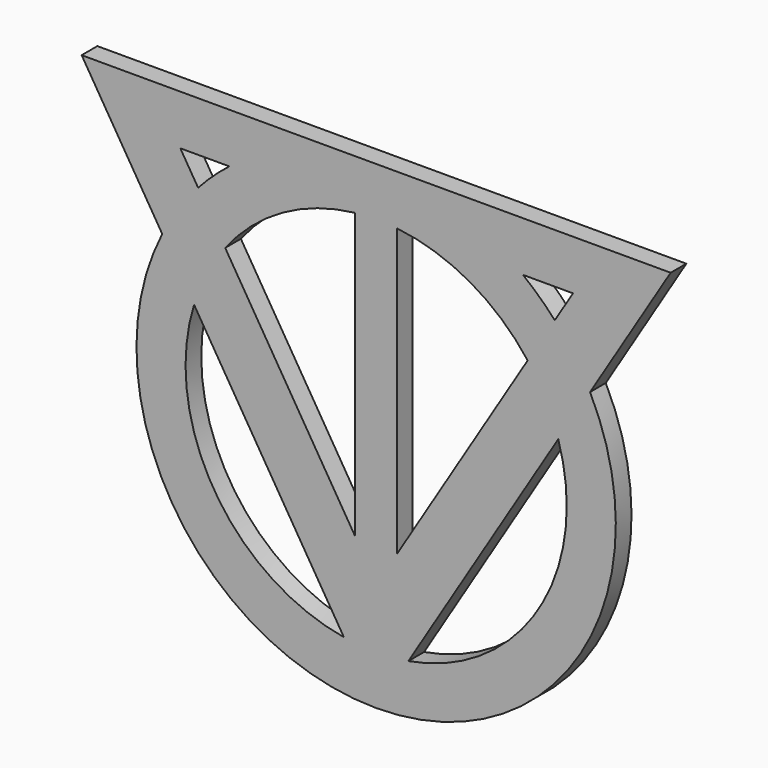
from build123d import *

# Parameters (mm, degrees)
F1_DEPTH = 2.54


with BuildPart() as f1:
    # F0 (on Front) → F1 (new body)
    with BuildSketch(Plane.XZ):
        with BuildLine():
            Line((-28.245696, 21.590037), (-17.819697, 4.609524))
            ThreePointArc((-17.819697, 4.609524), (-16.568917, -25.598129), (9.804215, -40.380711))
            ThreePointArc((9.804215, -40.380711), (9.829259, -40.380741), (9.854304, -40.380751))
            ThreePointArc((9.854304, -40.380751), (9.879348, -40.380741), (9.904392, -40.380711))
            ThreePointArc((9.904392, -40.380711), (36.277524, -25.598129), (37.528304, 4.609524))
            Line((37.528304, 4.609524), (47.954304, 21.590037))
            Line((47.954304, 21.590037), (11.468784, 21.590037))
            Line((11.468784, 21.590037), (9.854304, 21.590037))
            Line((9.854304, 21.590037), (8.239823, 21.590037))
            Line((8.239823, 21.590037), (-28.245696, 21.590037))
        make_face()
        with BuildLine():
            ThreePointArc((5.687621, -33.676138), (-11.15754, -22.275555), (-13.703103, -2.095048))
            Line((-13.703103, -2.095048), (5.687621, -33.676138))
        make_face(mode=Mode.SUBTRACT)
        with BuildLine():
            ThreePointArc((33.41171, -2.095048), (30.866148, -22.275555), (14.020986, -33.676138))
            Line((14.020986, -33.676138), (33.41171, -2.095048))
        make_face(mode=Mode.SUBTRACT)
        with BuildLine():
            Line((7.10099, -21.646665), (-9.674308, 5.678003))
            ThreePointArc((-9.674308, 5.678003), (-2.247189, 12.108065), (7.10099, 15.127888))
            Line((7.10099, 15.127888), (7.10099, -21.646665))
        make_face(mode=Mode.SUBTRACT)
        with BuildLine():
            Line((-13.177649, 11.384468), (-15.480497, 15.135492))
            Line((-15.480497, 15.135492), (-9.136935, 15.135492))
            ThreePointArc((-9.136935, 15.135492), (-11.240831, 13.34997), (-13.177649, 11.384468))
        make_face(mode=Mode.SUBTRACT)
        with BuildLine():
            ThreePointArc((12.550589, 15.13423), (21.982633, 12.092926), (29.455338, 5.583573))
            Line((29.455338, 5.583573), (12.550589, -21.951937))
            Line((12.550589, -21.951937), (12.550589, 15.13423))
        make_face(mode=Mode.SUBTRACT)
        with BuildLine():
            Line((28.845543, 15.135492), (35.319503, 15.135492))
            Line((35.319503, 15.135492), (32.963703, 11.298217))
            ThreePointArc((32.963703, 11.298217), (30.991879, 13.310498), (28.845543, 15.135492))
        make_face(mode=Mode.SUBTRACT)
    extrude(amount=F1_DEPTH)


solid = f1.part
